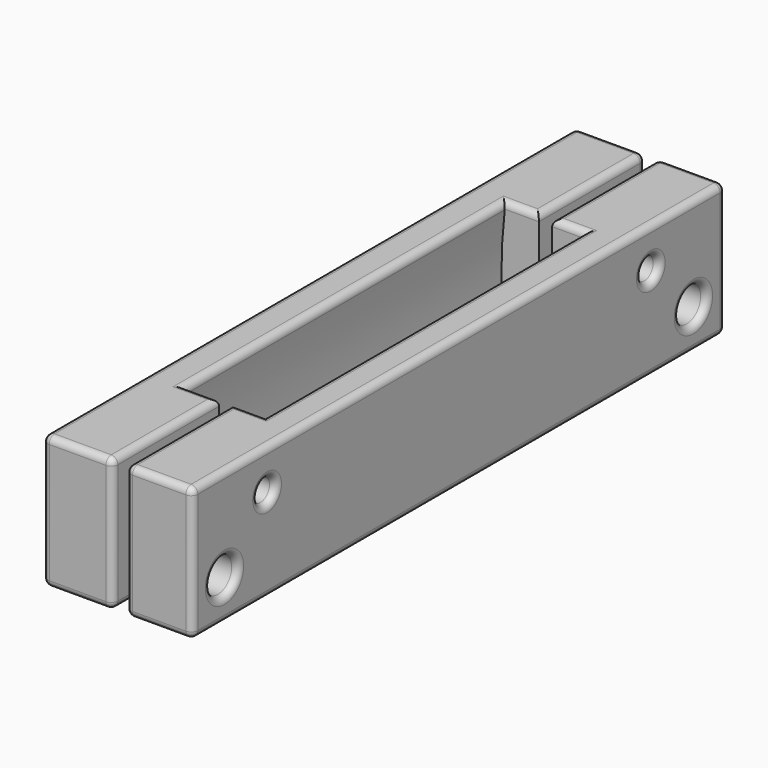
from build123d import *

# Parameters (mm, degrees)
F0_W        = 5
F0_H        = 60
F1_DEPTH    = 20
F3_DEPTH    = 60.001
F5_DEPTH    = 20
F7_DEPTH    = 20
F9_D        = 3.4
F9_DEPTH    = 12
F9_TIP      = 1.0214630523
F10_D       = 5
F10_DEPTH   = 12
F10_TIP     = 1.5021515476
F11_R       = 1.7
F12_DEPTH   = 2.5
F13_DEPTH   = 0.5
F14_W       = 5
F14_H       = 60
F15_DEPTH   = 20
F17_DEPTH   = 60
F18_W       = 5
F18_H       = 20
F19_DEPTH   = 20
F20_W       = 5
F20_H       = 20
F21_DEPTH   = 20
F8_W        = 20
F8_H        = 20
F5_FACE_W   = 20
F5_FACE_H   = 20
F5_FACE_R   = 2.5
F5_FACE_R_2 = 1.7
F22_DEPTH   = 5
F23_DEPTH   = 5
F24_D       = 3.4
F24_DEPTH   = 50
F24_TIP     = 1.0214630523
F24_2_D     = 3.4
F24_2_DEPTH = 50
F24_2_TIP   = 1.0214630523
F25_D       = 5.2
F25_DEPTH   = 50
F25_TIP     = 1.5622376095
F25_2_D     = 5.2
F25_2_DEPTH = 50
F25_2_TIP   = 1.5622376095
F26_R       = 1
F26_2_R     = 1


with BuildPart() as f1:
    # F0 (on Top) → F1 (new body)
    with BuildSketch(Plane.XY):
        with Locations((-2.5, 30)):
            Rectangle(F0_W, F0_H)
    extrude(amount=F1_DEPTH)

    # F2 (on face) → F3 (cut, through all)
    with BuildSketch(Plane.XZ):
        with BuildLine():
            Line((0, 0), (0, 20))
            ThreePointArc((0, 20), (-0.6274606681, 10), (0, 0))
        make_face()
    extrude(amount=-F3_DEPTH, mode=Mode.SUBTRACT)

    # F4 (on face) → F5 (join)
    with BuildSketch(Plane.XZ):
        with BuildLine():
            Line((0, 0), (0, 20))
            ThreePointArc((0, 20), (-0.6274606681, 10), (0, 0))
        make_face()
        with BuildLine():
            Line((0, 20), (-5, 20))
            Line((-5, 20), (-5, 0))
            Line((-5, 0), (0, 0))
            ThreePointArc((0, 0), (-0.6274606681, 10), (0, 20))
        make_face()
    extrude(amount=F5_DEPTH)

    # F6 (on face) → F7 (join)
    with BuildSketch(Plane(origin=(0, 60, 0), x_dir=(-1, 0, 0), z_dir=(0, 1, 0))):
        with BuildLine():
            ThreePointArc((0, 0), (0.6274606681, 10), (0, 20))
            Line((0, 20), (0, 0))
        make_face()
        with BuildLine():
            Line((5, 0), (5, 20))
            Line((5, 20), (0, 20))
            ThreePointArc((0, 20), (0.6274606681, 10), (0, 0))
            Line((0, 0), (5, 0))
        make_face()
    extrude(amount=F7_DEPTH)

    # F9
    with Locations(Plane.YZ):
        with Locations((-6, 14), (66, 14)):
            Hole(F9_D / 2, depth=F9_DEPTH)
            with Locations((0, 0, -(F9_DEPTH + F9_TIP / 2))):  # 118° drill point
                Cone(0, F9_D / 2, F9_TIP, mode=Mode.SUBTRACT)

    # F10
    with Locations(Plane.YZ):
        with Locations((-14, 6), (74, 6)):
            Hole(F10_D / 2, depth=F10_DEPTH)
            with Locations((0, 0, -(F10_DEPTH + F10_TIP / 2))):  # 118° drill point
                Cone(0, F10_D / 2, F10_TIP, mode=Mode.SUBTRACT)

    # F11 (on face) → F12 (cut)
    with BuildSketch(Plane(origin=(-5, 0, 0), x_dir=(0, -1, 0), z_dir=(-1, 0, 0))):
        Polygon((2.9916198142, 12.282545879), (5.9831688057, 10.5359392744), (8.9915489915, 12.2533933953), (9.0083801858, 15.717454121), (6.0168311943, 17.4640607256), (3.0084510085, 15.7466066047), align=None)
        with Locations((6, 14)):
            Circle(F11_R, mode=Mode.SUBTRACT)
        Polygon((-65.869986192, 10.5383390678), (-62.9371067894, 12.3817647944), (-63.0671205974, 15.8434257267), (-66.130013808, 17.4616609322), (-69.0628932106, 15.6182352056), (-68.9328794026, 12.1565742733), align=None)
        with Locations((-66, 14)):
            Circle(F11_R, mode=Mode.SUBTRACT)
    extrude(amount=-F12_DEPTH, mode=Mode.SUBTRACT)

    # F13 (add): a face of the model
    f13_faces = [f1.faces().sort_by_distance(p)[0] for p in [
        (-5, 30, 9.9513607047),
    ]]
    extrude(f13_faces, amount=F13_DEPTH)

    # F8 (on face) + F5_face (on face) → F22 (join)
    with BuildSketch(Plane.YZ):
        with Locations((70, 10)):
            Rectangle(F8_W, F8_H)
    with BuildSketch(Plane(origin=(0, -9.8862789787, 10.1137210213), x_dir=(0, 1, 0), z_dir=(1, 0, 0))):
        with Locations((-0.1137210213, -0.1137210213)):
            Rectangle(F5_FACE_W, F5_FACE_H)
        with Locations((-4.1137210213, -4.1137210213)):
            Circle(F5_FACE_R, mode=Mode.SUBTRACT)
        with Locations((3.8862789787, 3.8862789787)):
            Circle(F5_FACE_R_2, mode=Mode.SUBTRACT)
    extrude(amount=F22_DEPTH)

    # F24
    with Locations(Plane(origin=(0, 0, 0), x_dir=(0, 1, 0), z_dir=(-1, 0, 0))):
        with Locations((66, -14), (-6, -14)):
            Hole(F24_D / 2, depth=F24_DEPTH)
            with Locations((0, 0, -(F24_DEPTH + F24_TIP / 2))):  # 118° drill point
                Cone(0, F24_D / 2, F24_TIP, mode=Mode.SUBTRACT)

    # F25 (one way)
    with BuildSketch(Plane(origin=(0, 0, 0), x_dir=(0, 1, 0), z_dir=(-1, 0, 0))):
        with Locations((-14, -6), (74, -6)):
            Circle(F25_D / 2)
    extrude(amount=-F25_DEPTH, mode=Mode.SUBTRACT)
    with Locations(Plane(origin=(0, 0, 0), x_dir=(0, 1, 0), z_dir=(-1, 0, 0))):
        with Locations((-14, -6), (74, -6)):
            with Locations((0, 0, -(F25_DEPTH + F25_TIP / 2))):  # 118° drill point
                Cone(0, F25_D / 2, F25_TIP, mode=Mode.SUBTRACT)

    # F26
    f26_edges = [f1.edges().sort_by_distance(p)[0] for p in [
        (-5.5, 30, 20),
        (-5.5, -20, 10),
        (-5.5, 80, 10),
        (-5.5, 30, 0),
        (-5.5, 67.401433, 11.347457),
        (-5.5, 68.997886, 13.887405),
        (-5.5, 67.596454, 16.539948),
        (-5.5, 64.598567, 16.652543),
        (-5.5, 63.002114, 14.112595),
        (-5.5, 64.403546, 11.460052),
        (-5.5, -4.512641, 16.605334),
        (-5.5, -7.512606, 16.590757),
        (-5.5, -8.999965, 13.985424),
        (-5.5, -7.487359, 11.394666),
        (-5.5, -4.487394, 11.409243),
        (-5.5, -3.000035, 14.014576),
        (-5.5, 71.5, 6),
        (-5.5, -16.5, 6),
        (-0.25, 80, 0),
        (-0.25, 80, 20),
        (5, 80, 10),
        (0, 30, 20),
        (2.5, 60, 20),
        (5, 70, 20),
        (-0.25, -20, 20),
        (5, -10, 20),
        (2.5, 0, 20),
        (-0.25, -20, 0),
        (5, -20, 10),
        (0, 30, 0),
        (2.5, 60, 0),
        (5, 70, 0),
        (5, -10, 0),
        (2.5, 0, 0),
    ]]
    fillet(f26_edges, radius=F26_R)


with BuildPart() as f15:
    # F14 (on Top) → F15 (new body)
    with BuildSketch(Plane.XY):
        with Locations((14.5, 30)):
            Rectangle(F14_W, F14_H)
    extrude(amount=F15_DEPTH)

    # F16 (on face) → F17 (join)
    with BuildSketch(Plane.XZ):
        with BuildLine():
            Line((12, 0), (12, 20))
            ThreePointArc((12, 20), (11.3725393319, 10), (12, 0))
        make_face()
    extrude(amount=-F17_DEPTH)

    # F18 (on face) → F19 (join)
    with BuildSketch(Plane.XZ):
        with Locations((14.5, 10)):
            Rectangle(F18_W, F18_H)
    extrude(amount=F19_DEPTH)

    # F20 (on face) → F21 (join)
    with BuildSketch(Plane(origin=(0, 60, 0), x_dir=(-1, 0, 0), z_dir=(0, 1, 0))):
        with Locations((-14.5, 10)):
            Rectangle(F20_W, F20_H)
    extrude(amount=F21_DEPTH)

    # F23 (add): faces of the model
    f23_faces = [f15.faces().sort_by_distance(p)[0] for p in [
        (12, -10, 10),
        (12, 70, 10),
    ]]
    extrude(f23_faces, amount=F23_DEPTH)

    # F24#2
    with Locations(Plane(origin=(0, 0, 0), x_dir=(0, 1, 0), z_dir=(-1, 0, 0))):
        with Locations((66, -14), (-6, -14)):
            Hole(F24_2_D / 2, depth=F24_2_DEPTH)
            with Locations((0, 0, -(F24_2_DEPTH + F24_2_TIP / 2))):  # 118° drill point
                Cone(0, F24_2_D / 2, F24_2_TIP, mode=Mode.SUBTRACT)

    # F25#2 (one way)
    with BuildSketch(Plane(origin=(0, 0, 0), x_dir=(0, 1, 0), z_dir=(-1, 0, 0))):
        with Locations((-14, -6), (74, -6)):
            Circle(F25_2_D / 2)
    extrude(amount=-F25_2_DEPTH, mode=Mode.SUBTRACT)
    with Locations(Plane(origin=(0, 0, 0), x_dir=(0, 1, 0), z_dir=(-1, 0, 0))):
        with Locations((-14, -6), (74, -6)):
            with Locations((0, 0, -(F25_2_DEPTH + F25_2_TIP / 2))):  # 118° drill point
                Cone(0, F25_2_D / 2, F25_2_TIP, mode=Mode.SUBTRACT)

    # F26#2
    f26_2_edges = [f15.edges().sort_by_distance(p)[0] for p in [
        (17, -20, 10),
        (17, 30, 0),
        (17, 30, 20),
        (17, 80, 10),
        (17, -16.6, 6),
        (17, -7.7, 14),
        (17, 71.4, 6),
        (17, 64.3, 14),
        (12, 80, 20),
        (12, 80, 0),
        (7, 80, 10),
        (12, -20, 20),
        (7, -10, 20),
        (9.5, 0, 20),
        (12, 30, 20),
        (9.5, 60, 20),
        (7, 70, 20),
        (7, -20, 10),
        (12, -20, 0),
        (7, 70, 0),
        (9.5, 60, 0),
        (12, 30, 0),
        (9.5, 0, 0),
        (7, -10, 0),
    ]]
    fillet(f26_2_edges, radius=F26_2_R)


solid = Compound([f1.part, f15.part])
